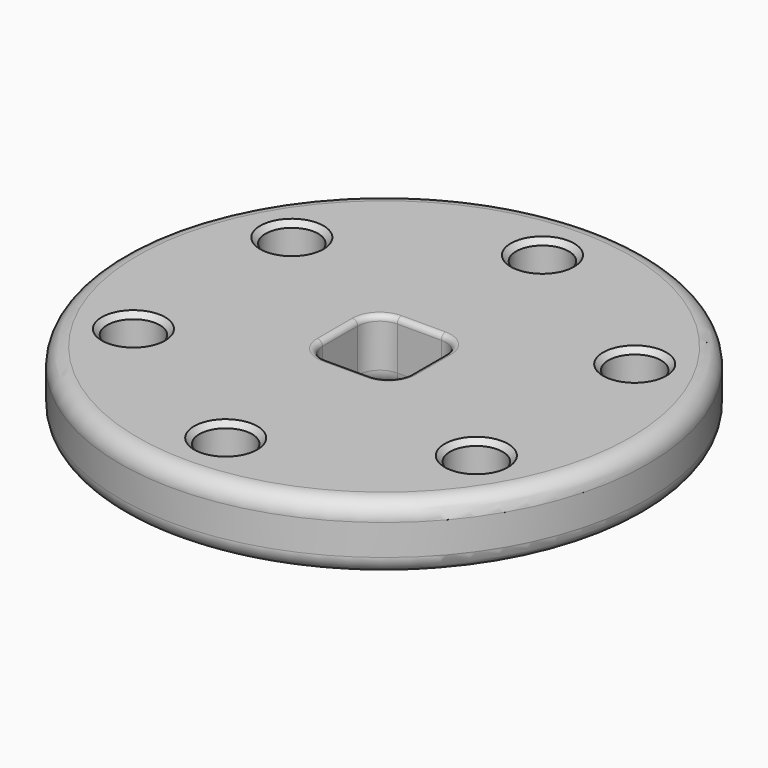
from build123d import *

# Parameters (mm, degrees)
F0_R     = 76.2
F0_R_2   = 7.62
F1_DEPTH = 19.05
F3_DEPTH = 19.051
F4_SIZE  = 1.524
F5_R     = 1.524
F6_R     = 5.08
F7_R     = 5.08


with BuildPart() as f1:
    # F0 (on Top) → F1 (new body)
    with BuildSketch(Plane.XY):
        Circle(F0_R)
        with Locations((-49.4933518263, -28.575)):
            Circle(F0_R_2, mode=Mode.SUBTRACT)
        with Locations((0, -57.15)):
            Circle(F0_R_2, mode=Mode.SUBTRACT)
        with Locations((49.4933518263, -28.575)):
            Circle(F0_R_2, mode=Mode.SUBTRACT)
        with Locations((-49.4933518263, 28.575)):
            Circle(F0_R_2, mode=Mode.SUBTRACT)
        with Locations((49.4933518263, 28.575)):
            Circle(F0_R_2, mode=Mode.SUBTRACT)
        with Locations((0, 57.15)):
            Circle(F0_R_2, mode=Mode.SUBTRACT)
    extrude(amount=-F1_DEPTH)

    # F2 (on face) → F3 (cut, through all)
    with BuildSketch(Plane(origin=(0, 0, -19.05), x_dir=(1, 0, 0), z_dir=(0, 0, -1))):
        with BuildLine():
            Line((-6.35, -12.7), (6.35, -12.7))
            ThreePointArc((6.35, -12.7), (10.8401280605, -10.8401280605), (12.7, -6.35))
            Line((12.7, -6.35), (12.7, 6.35))
            ThreePointArc((12.7, 6.35), (10.8401280605, 10.8401280605), (6.35, 12.7))
            Line((6.35, 12.7), (-6.35, 12.7))
            ThreePointArc((-6.35, 12.7), (-10.8401280605, 10.8401280605), (-12.7, 6.35))
            Line((-12.7, 6.35), (-12.7, -6.35))
            ThreePointArc((-12.7, -6.35), (-10.8401280605, -10.8401280605), (-6.35, -12.7))
        make_face()
    extrude(amount=-F3_DEPTH, mode=Mode.SUBTRACT)

    # F4
    f4_edges = [f1.edges().sort_by_distance(p)[0] for p in [
        (-57.113352, 28.575, 0),
        (-7.62, 57.15, 0),
        (41.873352, 28.575, 0),
        (41.873352, -28.575, 0),
        (-7.62, -57.15, 0),
        (-57.113352, -28.575, 0),
    ]]
    chamfer(f4_edges, length=F4_SIZE)

    # F5
    f5_edges = [f1.edges().sort_by_distance(p)[0] for p in [
        (-12.7, 0, 0),
        (-10.840128, 10.840128, 0),
        (0, 12.7, 0),
        (-10.840128, -10.840128, 0),
        (0, -12.7, 0),
        (10.840128, 10.840128, 0),
        (12.7, 0, 0),
        (10.840128, -10.840128, 0),
    ]]
    fillet(f5_edges, radius=F5_R)

    # F6
    f6_edges = [f1.edges().sort_by_distance(p)[0] for p in [
        (-76.2, 0, -19.05),
        (-7.62, -57.15, -19.05),
        (-57.113352, -28.575, -19.05),
        (41.873352, -28.575, -19.05),
        (-57.113352, 28.575, -19.05),
        (-10.840128, 10.840128, -19.05),
        (-12.7, 0, -19.05),
        (-10.840128, -10.840128, -19.05),
        (0, -12.7, -19.05),
        (10.840128, -10.840128, -19.05),
        (12.7, 0, -19.05),
        (10.840128, 10.840128, -19.05),
        (0, 12.7, -19.05),
        (-7.62, 57.15, -19.05),
        (41.873352, 28.575, -19.05),
    ]]
    fillet(f6_edges, radius=F6_R)

    # F7
    f7_edges = [f1.edges().sort_by_distance(p)[0] for p in [
        (-71.12, 0, -19.05),
        (-12.7, -57.15, -19.05),
        (-62.193352, -28.575, -19.05),
        (36.793352, -28.575, -19.05),
        (-62.193352, 28.575, -19.05),
        (-14.432231, 14.432231, -19.05),
        (-17.78, 0, -19.05),
        (0, 17.78, -19.05),
        (-14.432231, -14.432231, -19.05),
        (14.432231, 14.432231, -19.05),
        (0, -17.78, -19.05),
        (17.78, 0, -19.05),
        (14.432231, -14.432231, -19.05),
        (-12.7, 57.15, -19.05),
        (36.793352, 28.575, -19.05),
        (-76.2, 0, 0),
    ]]
    fillet(f7_edges, radius=F7_R)


solid = f1.part
